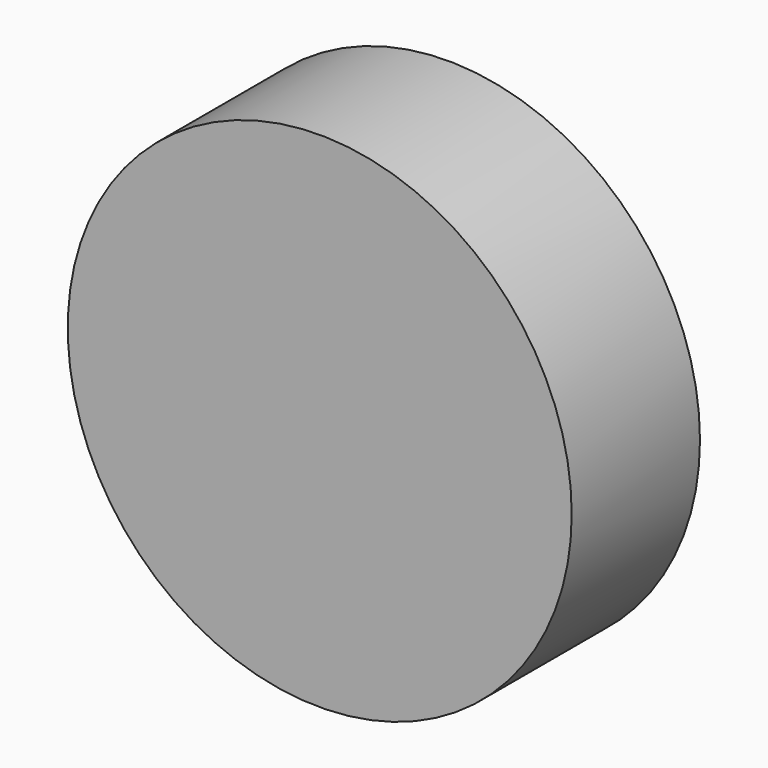
from build123d import *

# Parameters (mm, degrees)
CYLINDER040_R     = 2.6
CYLINDER040_DEPTH = 6
CYLINDER041_R     = 5.5
CYLINDER041_DEPTH = 3.5


with BuildPart() as cylinder040:
    # Cylinder040 → Cylinder040 (new body)
    with BuildSketch(Plane.XZ):
        Circle(CYLINDER040_R)
    extrude(amount=CYLINDER040_DEPTH)


with BuildPart() as front_drill:
    # Cylinder041 → Cylinder041 (new body)
    with BuildSketch(Plane.XZ.offset(2.5)):
        Circle(CYLINDER041_R)
    extrude(amount=CYLINDER041_DEPTH)

    # Fusion009003002004003002004: union Cylinder040
    add(cylinder040.part)


solid = front_drill.part
